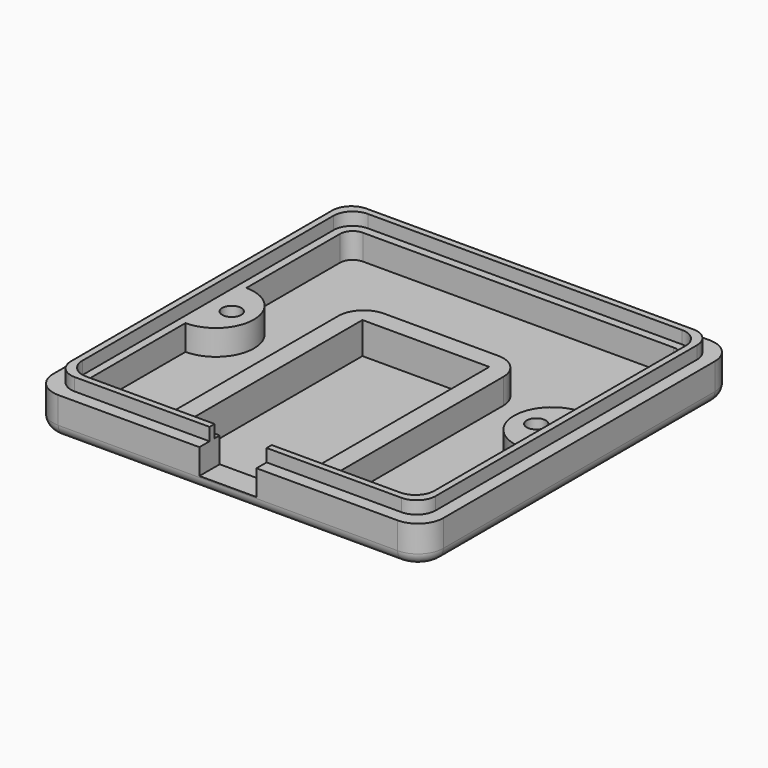
from build123d import *

# Parameters (mm, degrees)
SKETCH_W        = 61.5
SKETCH_H        = 61.5
PAD_DEPTH       = 8
SKETCH001_R     = 1.5
POCKET_DEPTH    = 6
SKETCH002_W     = 61.5
SKETCH002_H     = 61.5
SKETCH002_W_2   = 57.5
SKETCH002_H_2   = 57.5
POCKET001_DEPTH = 2
SKETCH003_W     = 55.5
SKETCH003_H     = 55.5
POCKET002_DEPTH = 2
FILLET_R        = 4
FILLET001_R     = 3
SKETCH004_W     = 20
SKETCH004_H     = 35
POCKET003_DEPTH = 1
POCKET004_DEPTH = 4
FILLET002_R     = 2
FILLET003_R     = 4
FILLET004_R     = 1.8


with BuildPart() as part:
    # Sketch → Pad (new body)
    with BuildSketch(Plane.XY):
        Rectangle(SKETCH_W, SKETCH_H)
    extrude(amount=PAD_DEPTH)

    # Sketch001 (on Face6 of Pad) → Pocket (cut)
    with BuildSketch(Plane.XY.offset(8)):
        with Locations((-24, 0)):
            Circle(SKETCH001_R)
        with Locations((24, 0)):
            Circle(SKETCH001_R)
        Polygon((-10, 8.25), (10, 8.25), (10, -26.75), (4.5, -26.75), (4.5, -30.75), (-4.5, -30.75), (-4.5, -26.75), (-10, -26.75), align=None)
    extrude(amount=-POCKET_DEPTH, mode=Mode.SUBTRACT)

    # Sketch002 (on Face5 of Pocket) → Pocket001 (cut)
    with BuildSketch(Plane.XY.offset(8)):
        Rectangle(SKETCH002_W, SKETCH002_H)
        Rectangle(SKETCH002_W_2, SKETCH002_H_2, mode=Mode.SUBTRACT)
    extrude(amount=-POCKET001_DEPTH, mode=Mode.SUBTRACT)

    # Sketch003 (on Face15 of Pocket001) → Pocket002 (cut)
    with BuildSketch(Plane.XY.offset(8)):
        Rectangle(SKETCH003_W, SKETCH003_H)
    extrude(amount=-POCKET002_DEPTH, mode=Mode.SUBTRACT)

    # Fillet
    fillet_edges = [part.edges().sort_by_distance(p)[0] for p in [
        (-30.75, -30.75, 3),
        (30.75, -30.75, 3),
        (-30.75, 30.75, 3),
        (30.75, 30.75, 3),
    ]]
    fillet(fillet_edges, radius=FILLET_R)

    # Fillet001
    fillet001_edges = [part.edges().sort_by_distance(p)[0] for p in [
        (28.75, -28.75, 7),
        (28.75, 28.75, 7),
        (-28.75, -28.75, 7),
        (-28.75, 28.75, 7),
        (27.75, 27.75, 7),
        (-27.75, 27.75, 7),
        (-27.75, -27.75, 7),
        (27.75, -27.75, 7),
    ]]
    fillet(fillet001_edges, radius=FILLET001_R)

    # Sketch004 (on Face25 of Fillet001) → Pocket003 (cut)
    with BuildSketch(Plane.XY.offset(2)):
        with Locations((0, -9.25)):
            Rectangle(SKETCH004_W, SKETCH004_H)
    extrude(amount=-POCKET003_DEPTH, mode=Mode.SUBTRACT)

    # Sketch005 (on Face23 of Pocket003) → Pocket004 (cut)
    with BuildSketch(Plane.XY.offset(6)):
        with BuildLine():
            Line((-26.5, 26.459332), (26.5, 26.459332))
            Line((26.5, 26.459332), (26.5, 6))
            ThreePointArc((26.5, 6), (20.5, 0), (26.5, -6))
            Line((26.5, -6), (26.5, -26.540668))
            Line((26.5, -26.540668), (13, -26.540668))
            Line((13, -26.540668), (13, 11.25))
            Line((-13, 11.25), (13, 11.25))
            Line((-13, 11.25), (-13, -26.540668))
            Line((-13, -26.540668), (-26.5, -26.540668))
            Line((-26.5, -26.540668), (-26.5, -6))
            ThreePointArc((-26.5, -6), (-20.5, 0), (-26.5, 6))
            Line((-26.5, 6), (-26.5, 26.459332))
        make_face()
    extrude(amount=-POCKET004_DEPTH, mode=Mode.SUBTRACT)

    # Fillet002
    fillet002_edges = [part.edges().sort_by_distance(p)[0] for p in [
        (-26.5, 26.459332, 4),
        (26.5, 26.459332, 4),
        (-26.5, -26.540668, 4),
        (26.5, -26.540668, 4),
        (-13, -26.540668, 4),
        (13, -26.540668, 4),
    ]]
    fillet(fillet002_edges, radius=FILLET002_R)

    # Fillet003
    fillet003_edges = [part.edges().sort_by_distance(p)[0] for p in [
        (13, 11.25, 4),
        (-13, 11.25, 4),
    ]]
    fillet(fillet003_edges, radius=FILLET003_R)

    # Fillet004
    fillet004_edges = [part.edges().sort_by_distance(p)[0] for p in [
        (0, 30.75, 0),
        (-29.578427, 29.578427, 0),
        (29.578427, 29.578427, 0),
        (-30.75, 0, 0),
        (30.75, 0, 0),
        (-29.578427, -29.578427, 0),
        (29.578427, -29.578427, 0),
        (0, -30.75, 0),
    ]]
    fillet(fillet004_edges, radius=FILLET004_R)


solid = part.part
